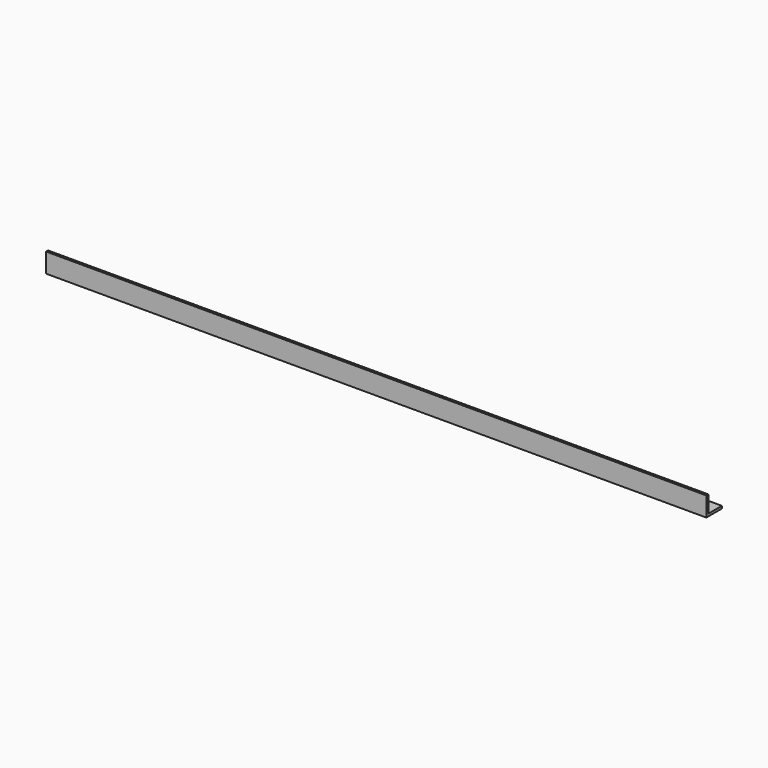
from build123d import *

# Parameters (mm, degrees)
F1_DEPTH = 860.425


with BuildPart() as f1:
    # F0 (on Right) → F1 (new body)
    with BuildSketch(Plane.YZ):
        Polygon((0, 25.4), (0, 0), (25.4, 0), (25.4, 3.175), (3.175, 3.175), (3.175, 25.4), align=None)
        Polygon((0, 25.4), (0, 0), (25.4, 0), (25.4, 3.175), (3.175, 3.175), (3.175, 25.4), align=None)
    extrude(amount=F1_DEPTH)


solid = f1.part
